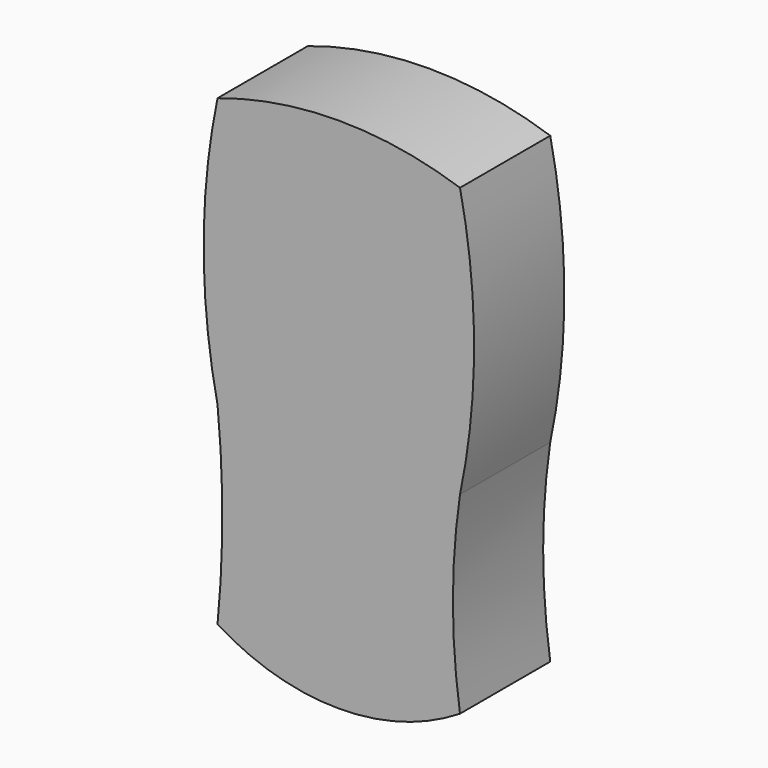
from build123d import *

# Parameters (mm, degrees)
F1_DEPTH = 14.986


with BuildPart() as f1:
    # F0 (on Front) → F1 (new body)
    with BuildSketch(Plane.XZ):
        with BuildLine():
            ThreePointArc((-68.565011, 25.650953), (-67.929997, 12.825476), (-68.565011, 0))
            ThreePointArc((-68.565011, 0), (-52.459134, -4.637175), (-36.353257, 0))
            ThreePointArc((-36.353257, 0), (-37.297672, 12.825476), (-36.353257, 25.650953))
            ThreePointArc((-36.353257, 25.650953), (-34.482567, 43.58003), (-36.353257, 61.509106))
            ThreePointArc((-36.353257, 61.509106), (-52.459134, 64.133268), (-68.565011, 61.509106))
            ThreePointArc((-68.565011, 61.509106), (-70.405842, 43.58003), (-68.565011, 25.650953))
        make_face()
    extrude(amount=F1_DEPTH)


solid = f1.part
